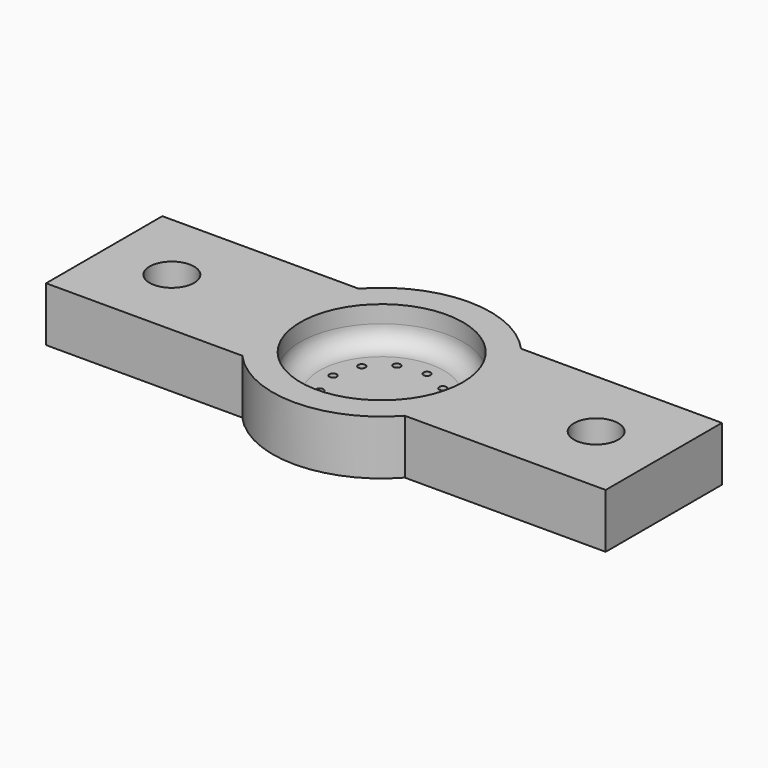
from build123d import *

# Parameters (mm, degrees)
F0_R     = 2.45
F1_DEPTH = 6
F2_R     = 8.95
F3_DEPTH = 4
F4_R     = 2.1
F5_R     = 0.4
F6_DEPTH = 2.001


with BuildPart() as f1:
    # F0 (on Top) → F1 (new body)
    with BuildSketch(Plane.XY):
        with BuildLine():
            ThreePointArc((8.944272, -8), (11.210068, -4.281865), (12, 0))
            ThreePointArc((12, 0), (11.210068, 4.281865), (8.944272, 8))
            ThreePointArc((8.944272, 8), (0, 12), (-8.944272, 8))
            ThreePointArc((-8.944272, 8), (-12, 0), (-8.944272, -8))
            ThreePointArc((-8.944272, -8), (0, -12), (8.944272, -8))
        make_face()
        with BuildLine():
            ThreePointArc((8.944272, 8), (11.210068, 4.281865), (12, 0))
            ThreePointArc((12, 0), (11.210068, -4.281865), (8.944272, -8))
            Line((8.944272, -8), (31.067557, -8))
            Line((31.067557, -8), (31.067557, 8))
            Line((31.067557, 8), (8.944272, 8))
        make_face()
        with Locations((23.617557, 0)):
            Circle(F0_R, mode=Mode.SUBTRACT)
        with BuildLine():
            ThreePointArc((-8.944272, -8), (-12, 0), (-8.944272, 8))
            Line((-8.944272, 8), (-30.555639, 8))
            Line((-30.555639, 8), (-30.555639, -8))
            Line((-30.555639, -8), (-8.944272, -8))
        make_face()
        with Locations((-23.105639, 0)):
            Circle(F0_R, mode=Mode.SUBTRACT)
    extrude(amount=F1_DEPTH)

    # F2 (on face) → F3 (cut)
    with BuildSketch(Plane.XY.offset(6)):
        Circle(F2_R)
    extrude(amount=-F3_DEPTH, mode=Mode.SUBTRACT)

    # F4
    f4_edges = [f1.edges().sort_by_distance(p)[0] for p in [
        (-8.95, 0, 2),
    ]]
    fillet(f4_edges, radius=F4_R)

    # F5 (on face) → F6 (cut, through all)
    with BuildSketch(Plane.XY.offset(2)):
        with Locations((-5.35, 0)):
            Circle(F5_R)
        with Locations((-4.500706, -2.892428)):
            Circle(F5_R)
        with Locations((-2.22247, -4.866531)):
            Circle(F5_R)
        with Locations((0.761384, -5.295545)):
            Circle(F5_R)
        with Locations((3.503505, -4.04326)):
            Circle(F5_R)
        with Locations((5.133287, -1.507269)):
            Circle(F5_R)
        with Locations((5.133287, 1.507269)):
            Circle(F5_R)
        with Locations((3.503505, 4.04326)):
            Circle(F5_R)
        with Locations((0.761384, 5.295545)):
            Circle(F5_R)
        with Locations((-2.22247, 4.866531)):
            Circle(F5_R)
        with Locations((-4.500706, 2.892428)):
            Circle(F5_R)
    extrude(amount=-F6_DEPTH, mode=Mode.SUBTRACT)


solid = f1.part
